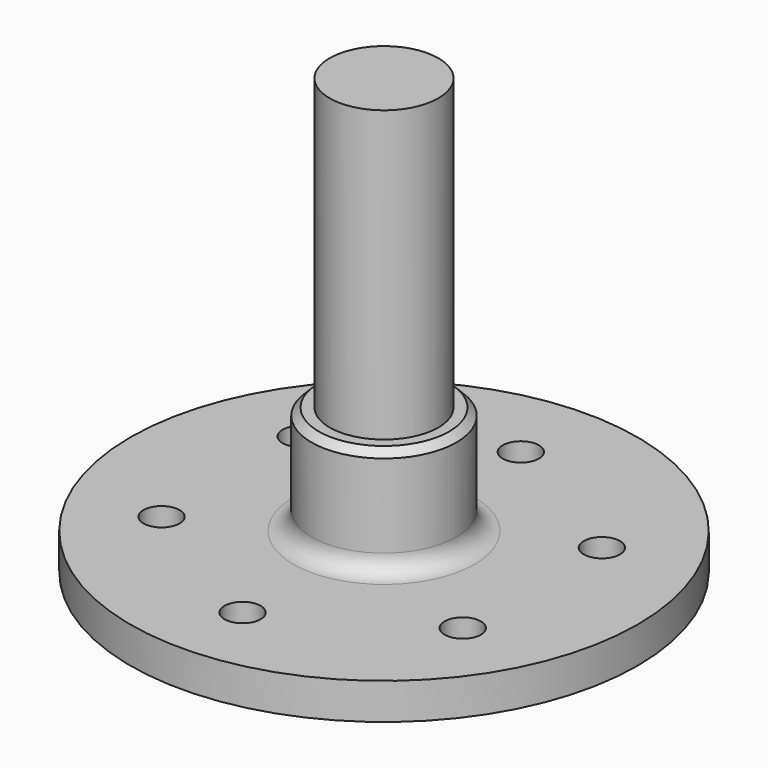
from build123d import *

# Parameters (mm, degrees)
F0_R     = 35
F0_R_2   = 2.5
F1_DEPTH = 5
F2_R     = 10
F3_DEPTH = 20
F4_R     = 7.5
F5_DEPTH = 60
F6_R     = 2.5
F7_SIZE  = 1


with BuildPart() as f1:
    # F0 (on Top) → F1 (new body)
    with BuildSketch(Plane.XY):
        Circle(F0_R)
        with Locations((-20.7846096908, -12.3947781175)):
            Circle(F0_R_2, mode=Mode.SUBTRACT)
        with Locations((0, -24.3947781175)):
            Circle(F0_R_2, mode=Mode.SUBTRACT)
        with Locations((20.7846096908, -12.3947781175)):
            Circle(F0_R_2, mode=Mode.SUBTRACT)
        with Locations((-20.7846096908, 11.6052218825)):
            Circle(F0_R_2, mode=Mode.SUBTRACT)
        with Locations((20.7846096908, 11.6052218825)):
            Circle(F0_R_2, mode=Mode.SUBTRACT)
        with Locations((0, 23.6052218825)):
            Circle(F0_R_2, mode=Mode.SUBTRACT)
    extrude(amount=F1_DEPTH)

    # F2 (on Top) → F3 (join)
    with BuildSketch(Plane.XY):
        Circle(F2_R)
    extrude(amount=F3_DEPTH)

    # F4 (on Top) → F5 (join)
    with BuildSketch(Plane.XY):
        Circle(F4_R)
    extrude(amount=F5_DEPTH)

    # F6
    f6_edges = [f1.edges().sort_by_distance(p)[0] for p in [
        (-10, 0, 5),
    ]]
    fillet(f6_edges, radius=F6_R)

    # F7
    f7_edges = [f1.edges().sort_by_distance(p)[0] for p in [
        (-10, 0, 20),
    ]]
    chamfer(f7_edges, length=F7_SIZE)


solid = f1.part
